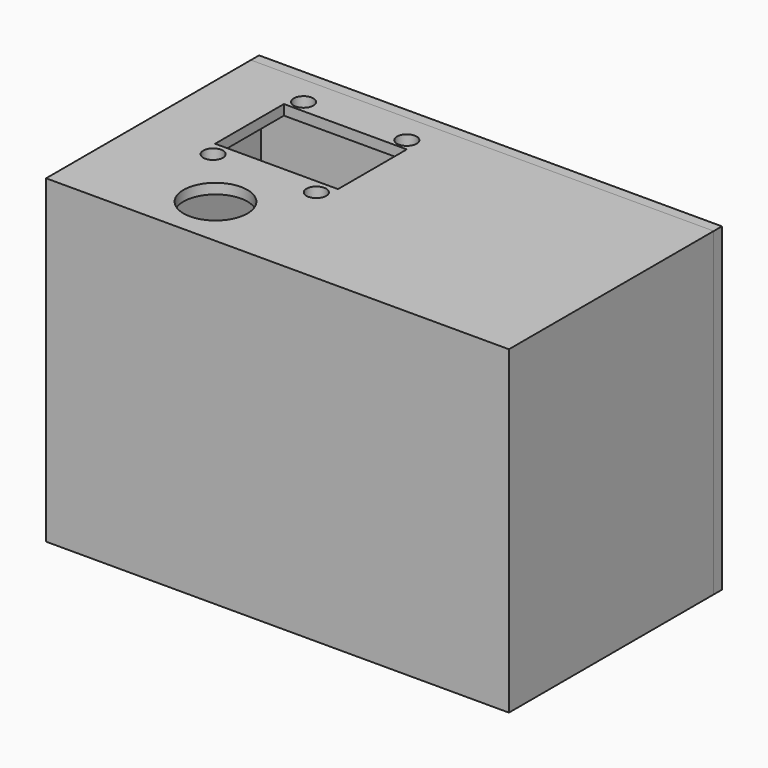
from build123d import *

# Parameters (mm, degrees)
SKETCH_W        = 94.16
SKETCH_H        = 52.08
SKETCH_R        = 2
SKETCH_R_2      = 6.5
SKETCH_W_2      = 25
SKETCH_H_2      = 17.5
PAD_DEPTH       = 8
SKETCH001_W     = 40
SKETCH001_H     = 4
POCKET_DEPTH    = 50
SKETCH002_W     = 4
SKETCH002_H     = 6
POCKET001_DEPTH = 4
PAD001_DEPTH    = 55
SKETCH004_W     = 94.16
SKETCH004_H     = 52.08
PAD002_DEPTH    = 2.08
SKETCH005_W     = 5
SKETCH005_H     = 5
PAD003_DEPTH    = 3
SKETCH006_W     = 5
SKETCH006_H     = 15
PAD004_DEPTH    = 2
SKETCH007_W     = 45
SKETCH007_H     = 50
POCKET002_DEPTH = 5.92
SKETCH008_R     = 6
POCKET003_DEPTH = 2.081
SKETCH009_R     = 4.23
SKETCH009_R_2   = 2.15
PAD005_DEPTH    = 10
SKETCH010_W     = 94.16
SKETCH010_H     = 65.08
SKETCH010_R     = 1.6
PAD006_DEPTH    = 2.08
CHAMFER_SIZE    = 1.5


with BuildPart() as body:
    # Sketch → Pad (new body)
    with BuildSketch(Plane.XY):
        Rectangle(SKETCH_W, SKETCH_H)
        with Locations((-10.54, 20.013333)):
            Circle(SKETCH_R, mode=Mode.SUBTRACT)
        with Locations((-31.54, -2.986667)):
            Circle(SKETCH_R, mode=Mode.SUBTRACT)
        with Locations((-31.54, 20.013333)):
            Circle(SKETCH_R, mode=Mode.SUBTRACT)
        with Locations((-10.54, -2.986667)):
            Circle(SKETCH_R, mode=Mode.SUBTRACT)
        with Locations((-21.04, -15.513333)):
            Circle(SKETCH_R_2, mode=Mode.SUBTRACT)
        with Locations((-21.04, 8.763333)):
            Rectangle(SKETCH_W_2, SKETCH_H_2, mode=Mode.SUBTRACT)
    extrude(amount=PAD_DEPTH)

    # Sketch001 (on Face1 of Pad) → Pocket (cut)
    with BuildSketch(Plane(origin=(0, 26.04, 0), x_dir=(-1, 0, 0), z_dir=(0, 1, 0))):
        with Locations((-25, 4)):
            Rectangle(SKETCH001_W, SKETCH001_H)
    extrude(amount=-POCKET_DEPTH, mode=Mode.SUBTRACT)

    # Sketch002 (on Face1 of Pocket) → Pocket001 (cut)
    with BuildSketch(Plane(origin=(0, 26.04, 0), x_dir=(-1, 0, 0), z_dir=(0, 1, 0))):
        with Locations((-3, 3)):
            Rectangle(SKETCH002_W, SKETCH002_H)
    extrude(amount=-POCKET001_DEPTH, mode=Mode.SUBTRACT)

    # Sketch003 (on Face2 of Pocket001) → Pad001 (join)
    with BuildSketch(Plane(origin=(0, 0, 0), x_dir=(1, 0, 0), z_dir=(0, 0, -1))):
        Polygon((-45, 23.96), (45, 23.96), (45, -26.04), (47.08, -26.04), (47.08, 26.04), (-47.08, 26.04), (-47.08, -26.04), (-45, -26.04), align=None)
    extrude(amount=PAD001_DEPTH)

    # Sketch004 (on Face16 of Pad001) → Pad002 (join)
    with BuildSketch(Plane(origin=(0, 0, -55), x_dir=(1, 0, 0), z_dir=(0, 0, -1))):
        Rectangle(SKETCH004_W, SKETCH004_H)
    extrude(amount=PAD002_DEPTH)

    # Sketch005 (on Face19 of Pad002) → Pad003 (join)
    with BuildSketch(Plane(origin=(0, -23.96, 0), x_dir=(-1, 0, 0), z_dir=(0, 1, 0))):
        with Locations((-27.5, -39.5)):
            Rectangle(SKETCH005_W, SKETCH005_H)
        with Locations((-27.5, -29.5)):
            Rectangle(SKETCH005_W, SKETCH005_H)
        with Locations((-2.5, -29.5)):
            Rectangle(SKETCH005_W, SKETCH005_H)
        with Locations((-2.5, -39.5)):
            Rectangle(SKETCH005_W, SKETCH005_H)
    extrude(amount=PAD003_DEPTH)

    # Sketch006 (on Face55 of Pad003) → Pad004 (join)
    with BuildSketch(Plane(origin=(0, -20.96, 0), x_dir=(-1, 0, 0), z_dir=(0, 1, 0))):
        with Locations((-27.5, -34.5)):
            Rectangle(SKETCH006_W, SKETCH006_H)
        with Locations((-2.5, -34.5)):
            Rectangle(SKETCH006_W, SKETCH006_H)
    extrude(amount=PAD004_DEPTH)

    # Sketch007 (on Face3 of Pad004) → Pocket002 (cut)
    with BuildSketch(Plane(origin=(0, 0, 0), x_dir=(1, 0, 0), z_dir=(0, 0, -1))):
        with Locations((-22.5, -1.04)):
            Rectangle(SKETCH007_W, SKETCH007_H)
    extrude(amount=-POCKET002_DEPTH, mode=Mode.SUBTRACT)

    # Sketch008 (on Face18 of Pocket002) → Pocket003 (cut, through all)
    with BuildSketch(Plane.YZ.offset(-45)):
        with Locations((-8.96, -15)):
            Circle(SKETCH008_R)
    extrude(amount=-POCKET003_DEPTH, mode=Mode.SUBTRACT)

    # Sketch009 (on Face13 of Pocket003) → Pad005 (join)
    with BuildSketch(Plane(origin=(0, 26.04, 0), x_dir=(-1, 0, 0), z_dir=(0, 1, 0))):
        with Locations((-42.85, -2.15)):
            Circle(SKETCH009_R)
        with Locations((-42.85, -2.15)):
            Circle(SKETCH009_R_2, mode=Mode.SUBTRACT)
        with Locations((42.85, -52.85)):
            Circle(SKETCH009_R)
        with Locations((42.85, -52.85)):
            Circle(SKETCH009_R_2, mode=Mode.SUBTRACT)
        with Locations((42.85, 3.77)):
            Circle(SKETCH009_R)
        with Locations((42.85, 3.77)):
            Circle(SKETCH009_R_2, mode=Mode.SUBTRACT)
        with Locations((-42.85, -52.85)):
            Circle(SKETCH009_R)
        with Locations((-42.85, -52.85)):
            Circle(SKETCH009_R_2, mode=Mode.SUBTRACT)
    extrude(amount=-PAD005_DEPTH)


with BuildPart() as lid:
    # Sketch010 (on Face1 of ShapeBinder) → Pad006 (new body)
    with BuildSketch(Plane(origin=(0, 26.04, 0), x_dir=(-1, 0, 0), z_dir=(0, 1, 0))):
        with Locations((0, -24.54)):
            Rectangle(SKETCH010_W, SKETCH010_H)
        with Locations((-42.85, -2.15)):
            Circle(SKETCH010_R, mode=Mode.SUBTRACT)
        with Locations((42.85, 3.77)):
            Circle(SKETCH010_R, mode=Mode.SUBTRACT)
        with Locations((42.85, -52.85)):
            Circle(SKETCH010_R, mode=Mode.SUBTRACT)
        with Locations((-42.85, -52.85)):
            Circle(SKETCH010_R, mode=Mode.SUBTRACT)
    extrude(amount=PAD006_DEPTH)

    # Chamfer
    chamfer_edges = [lid.edges().sort_by_distance(p)[0] for p in [
        (44.45, 28.12, -52.85),
        (44.45, 28.12, -2.15),
        (-41.25, 28.12, 3.77),
        (-41.25, 28.12, -52.85),
    ]]
    chamfer(chamfer_edges, length=CHAMFER_SIZE)


solid = Compound([body.part, lid.part])
